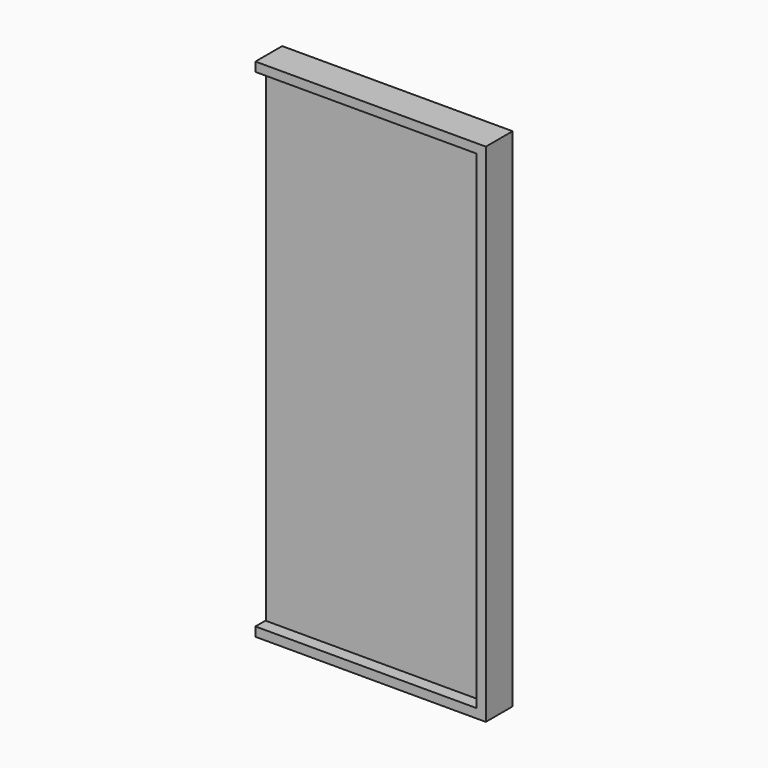
from build123d import *

# Parameters (mm, degrees)
F0_W     = 914.4
F0_H     = 2032
F1_DEPTH = 22.225
F2_DEPTH = 69.85


with BuildPart() as f1:
    # F0 (on Front) → F1 (new body, symmetric)
    with BuildSketch(Plane.XZ):
        with Locations((463.55, 1016)):
            Rectangle(F0_W, F0_H)
    extrude(amount=F1_DEPTH, both=True)


with BuildPart() as f2:
    # F0 (on Front) → F2 (new body, symmetric)
    with BuildSketch(Plane.XZ):
        Polygon((962.025, 2073.275), (0, 2073.275), (0, 2035.175), (923.925, 2035.175), (923.925, -3.175), (0, -3.175), (0, -41.275), (962.025, -41.275), align=None)
    extrude(amount=F2_DEPTH, both=True)


solid = Compound([f1.part, f2.part])
